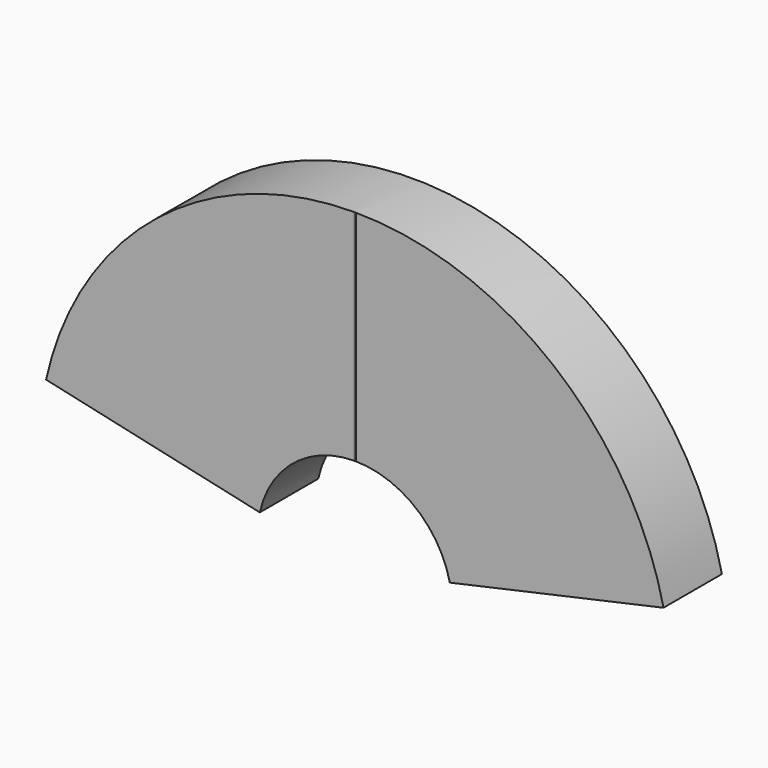
from build123d import *

# Parameters (mm, degrees)
F1_DEPTH = 19.05
F3_DEPTH = 0.0254


with BuildPart() as f1:
    # F0 (on Front) → F1 (new body)
    with BuildSketch(Plane.XZ):
        with BuildLine():
            ThreePointArc((-24.797919, 5.497566), (0, 25.4), (24.797919, 5.497566))
            Line((24.797919, 5.497566), (80.593235, 17.86709))
            ThreePointArc((80.593235, 17.86709), (0, 82.55), (-80.593235, 17.86709))
            Line((-80.593235, 17.86709), (-24.797919, 5.497566))
        make_face()
    extrude(amount=F1_DEPTH)

    # F2 (on face) → F3 (join)
    with BuildSketch(Plane.XZ.offset(19.05)):
        with BuildLine():
            Line((-0.254, 25.4), (0, 25.4))
            Line((0, 25.4), (0.254, 25.4))
            Line((0.254, 25.4), (0.254, 82.549609))
            ThreePointArc((0.254, 82.549609), (0.127, 82.549902), (0, 82.55))
            ThreePointArc((0, 82.55), (-0.127, 82.549902), (-0.254, 82.549609))
            Line((-0.254, 82.549609), (-0.254, 25.4))
        make_face()
    extrude(amount=F3_DEPTH)


solid = f1.part
